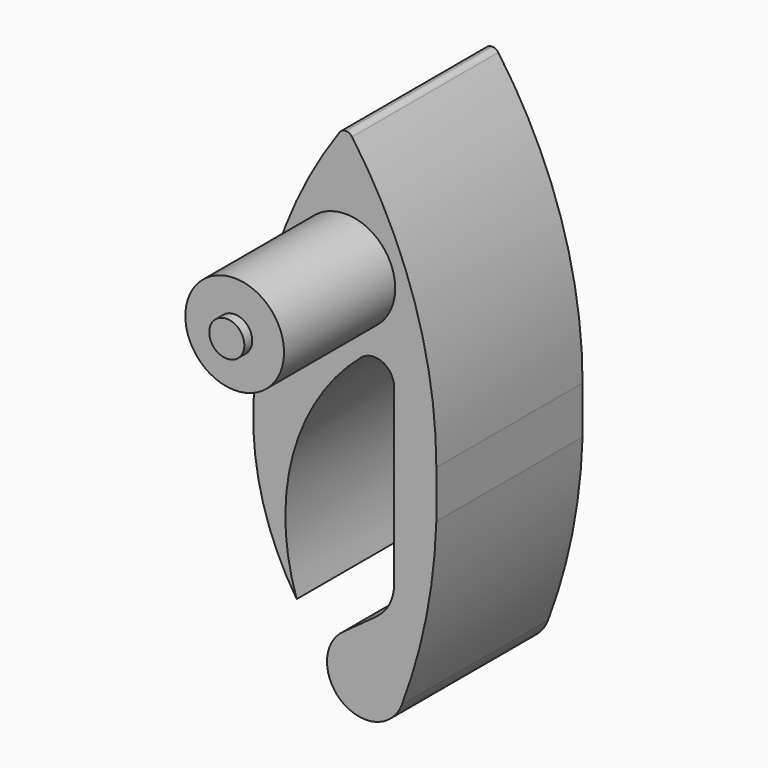
from build123d import *

# Parameters (mm, degrees)
F2_R     = 13.5
F3_DEPTH = 50


with BuildPart() as f1:
    # F0 (on Top) → F1 (revolve)
    with BuildSketch(Plane.XY):
        Polygon((0, 57.4), (0, 0), (4.8, 0), (4.8, 2.7), (13.5, 2.7), (13.5, 40.7), (4.8, 40.7), (4.8, 43.4), (1, 43.4), (1, 57.4), align=None)
    revolve(axis=Axis((0, 28.7, 0), (0, 1, 0)))


with BuildPart() as f3:
    # F2 (on face) → F3 (new body)
    with BuildSketch(Plane(origin=(0, 40.7, 0), x_dir=(-1, 0, 0), z_dir=(0, 1, 0))):
        with BuildLine():
            ThreePointArc((-15.293559, -99.706312), (-11.415618, -104.648306), (-5.417719, -106.51564))
            ThreePointArc((-5.417719, -106.51564), (4.62865, -99.223106), (0.807667, -87.411643))
            Line((0.807667, -87.411643), (-8.454187, -80.658207))
            ThreePointArc((-8.454187, -80.658207), (-11.941093, -76.564912), (-13.194118, -71.33581))
            Line((-13.194118, -71.33581), (-13.194118, -23.848685))
            ThreePointArc((-13.194118, -23.848685), (-10.017441, -18.886677), (-4.181347, -19.694644))
            ThreePointArc((-4.181347, -19.694644), (14.421882, -48.953481), (13.432901, -83.611548))
            ThreePointArc((13.432901, -83.611548), (21.831155, -66.145248), (25.24896, -47.068537))
            Line((25.24896, -47.068537), (25.24896, -41.067817))
            ThreePointArc((25.24896, -41.067817), (19.221185, -2.39799), (1.709815, 32.602604))
            ThreePointArc((1.709815, 32.602604), (0.961894, 33.25094), (0, 33.48436))
            ThreePointArc((0, 33.48436), (-0.961894, 33.25094), (-1.709815, 32.602604))
            ThreePointArc((-1.709815, 32.602604), (-18.85077, -1.657629), (-24.75104, -39.50948))
            Line((-24.75104, -39.50948), (-24.75104, -52.477009))
            ThreePointArc((-24.75104, -52.477009), (-21.985457, -76.484775), (-15.293559, -99.706312))
        make_face()
        Circle(F2_R, mode=Mode.SUBTRACT)
    extrude(amount=F3_DEPTH)


solid = Compound([f1.part, f3.part])
